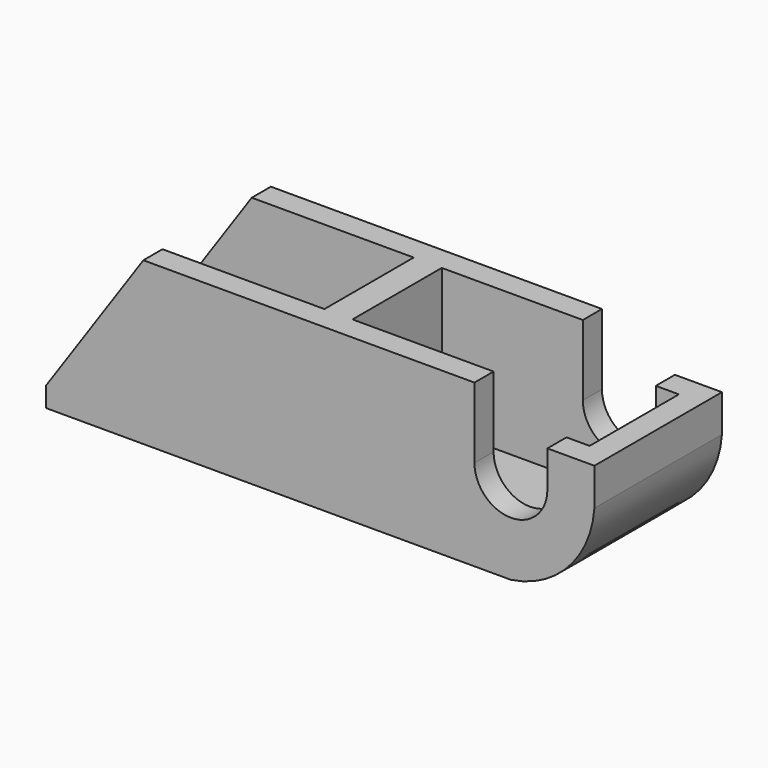
from build123d import *

# Parameters (mm, degrees)
F1_DEPTH = 7.12
F2_DEPTH = 1
F3_W     = 2.36
F3_H     = 1.7178014041
F4_DEPTH = 10.791
F5_DEPTH = 25


with BuildPart() as f1:
    # F0 (on Top) → F1 (new body)
    with BuildSketch(Plane.XY):
        Polygon((0, 8), (0, 0), (10.26, 0), (14.42, 0), (22.52, 0), (27.52, 0), (27.52, 8), (22.52, 8), (14.42, 8), (1.2575370492, 8), align=None)
        Polygon((10.26, 1.2), (1.2, 1.2), (1.2575370492, 6.8), (13.0106639117, 6.8), (14.0548550674, 6.8), (14.42, 6.8), (22.52, 6.8), (26.32, 6.8), (26.32, 1.2), (22.52, 1.2), (14.42, 1.2), (13.0106639117, 1.2), align=None, mode=Mode.SUBTRACT)
        Polygon((14.0548550674, 6.8), (13.0106639117, 6.8), (13.0106639117, 1.2), (14.42, 1.2), (14.42, 6.8), align=None)
    extrude(amount=F1_DEPTH)

    # F0 (on Top) → F2 (join)
    with BuildSketch(Plane.XY):
        Polygon((0, 10.79), (0, 8), (1.2575370492, 8), (14.42, 8), (10.26, 10.79), align=None)
        Polygon((0, 8), (0, 0), (10.26, 0), (14.42, 0), (22.52, 0), (27.52, 0), (27.52, 8), (22.52, 8), (14.42, 8), (1.2575370492, 8), align=None)
        Polygon((10.26, 1.2), (1.2, 1.2), (1.2575370492, 6.8), (13.0106639117, 6.8), (14.0548550674, 6.8), (14.42, 6.8), (22.52, 6.8), (26.32, 6.8), (26.32, 1.2), (22.52, 1.2), (14.42, 1.2), (13.0106639117, 1.2), align=None, mode=Mode.SUBTRACT)
        Polygon((1.2575370492, 6.8), (1.2, 1.2), (10.26, 1.2), (13.0106639117, 1.2), (13.0106639117, 6.8), align=None)
        Polygon((14.0548550674, 6.8), (13.0106639117, 6.8), (13.0106639117, 1.2), (14.42, 1.2), (14.42, 6.8), align=None)
        Polygon((14.42, 6.8), (14.42, 1.2), (22.52, 1.2), (26.32, 1.2), (26.32, 6.8), (22.52, 6.8), align=None)
    extrude(amount=-F2_DEPTH)

    # F3 (on Front) → F4 (cut, through all)
    with BuildSketch(Plane.XZ):
        with BuildLine():
            ThreePointArc((21.5, 3.5721985959), (23.33, 1.7421985959), (25.16, 3.5721985959))
            ThreePointArc((25.16, 3.5721985959), (24.6240054096, 4.8662040054), (23.33, 5.4021985959))
            ThreePointArc((23.33, 5.4021985959), (22.0359945904, 4.8662040054), (21.5, 3.5721985959))
        make_face()
        with BuildLine():
            ThreePointArc((21.5, 3.5721985959), (22.0359945904, 4.8662040054), (23.33, 5.4021985959))
            Line((23.33, 5.4021985959), (25.16, 5.4021985959))
            Line((25.16, 5.4021985959), (25.16, 7.12))
            Line((25.16, 7.12), (21.5, 7.12))
            Line((21.5, 7.12), (21.5, 3.5721985959))
        make_face()
        with Locations((26.34, 6.2610992979)):
            Rectangle(F3_W, F3_H)
        with BuildLine():
            ThreePointArc((23.33, 5.4021985959), (24.6240054096, 4.8662040054), (25.16, 3.5721985959))
            Line((25.16, 3.5721985959), (25.16, 5.4021985959))
            Line((25.16, 5.4021985959), (23.33, 5.4021985959))
        make_face()
        with BuildLine():
            Line((27.52, -1), (27.52, 3.5302453605))
            ThreePointArc((27.52, 3.5302453605), (26.2239695669, 0.5261599489), (23.33, -1))
            Line((23.33, -1), (27.52, -1))
        make_face()
    extrude(amount=-F4_DEPTH, mode=Mode.SUBTRACT)

    # F3 (on Front) → F5 (cut)
    with BuildSketch(Plane.XZ):
        Polygon((0, 0), (4.881774541, 7.12), (0, 7.12), align=None)
    extrude(amount=-F5_DEPTH, mode=Mode.SUBTRACT)


solid = f1.part
